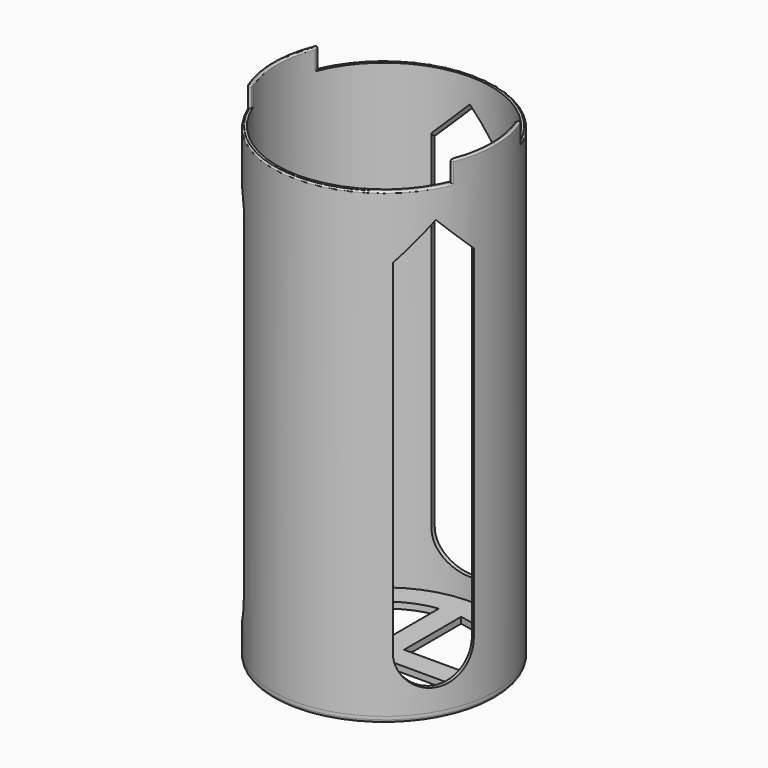
from build123d import *

# Parameters (mm, degrees)
SKETCH_R             = 36
PAD_DEPTH            = 2
SKETCH001_R          = 36
SKETCH001_R_2        = 34.75
PAD001_DEPTH         = 156.5
POCKET_DEPTH         = 100
POLARPATTERN_COUNT   = 3
SKETCH003_W          = 64.8
SKETCH003_H          = 6.65
POCKET001_DEPTH      = 100
POCKET001_DEPTH_BACK = 100
FILLET_R             = 1
FILLET001_R          = 0.5
CHAMFER_SIZE         = 1


with BuildPart() as part:
    # Sketch → Pad (new body)
    with BuildSketch(Plane.XY):
        Circle(SKETCH_R)
        with BuildLine():
            ThreePointArc((-26.758924, -3.6), (-19.091883, -19.091883), (-3.6, -26.758924))
            Line((-3.6, -26.758924), (-3.6, -3.6))
            Line((-3.6, -3.6), (-26.758924, -3.6))
        make_face(mode=Mode.SUBTRACT)
        with BuildLine():
            Line((-3.6, 26.758924), (-3.6, 3.6))
            Line((-3.6, 3.6), (-26.758924, 3.6))
            ThreePointArc((-3.6, 26.758924), (-19.091883, 19.091883), (-26.758924, 3.6))
        make_face(mode=Mode.SUBTRACT)
        with BuildLine():
            Line((3.6, 26.758924), (3.6, 3.6))
            Line((3.6, 3.6), (26.758924, 3.6))
            ThreePointArc((26.758924, 3.6), (19.091883, 19.091883), (3.6, 26.758924))
        make_face(mode=Mode.SUBTRACT)
        with BuildLine():
            Line((3.6, -26.758924), (3.6, -3.6))
            Line((3.6, -3.6), (26.758924, -3.6))
            ThreePointArc((3.6, -26.758924), (19.091883, -19.091883), (26.758924, -3.6))
        make_face(mode=Mode.SUBTRACT)
    extrude(amount=-PAD_DEPTH)

    # Sketch001 (on Face14 of Pad) → Pad001 (join)
    with BuildSketch(Plane.XY):
        Circle(SKETCH001_R)
        Circle(SKETCH001_R_2, mode=Mode.SUBTRACT)
    extrude(amount=PAD001_DEPTH)

    # Sketch002 → Pocket (cut)
    with BuildSketch(Plane.XZ):
        with BuildLine():
            ThreePointArc((-11, 18), (0, 7), (11, 18))
            Line((11, 129.5), (11, 18))
            Line((11, 129.5), (0, 140.5))
            Line((-11, 129.5), (0, 140.5))
            Line((-11, 129.5), (-11, 18))
        make_face()
    pocket = extrude(amount=-POCKET_DEPTH, mode=Mode.SUBTRACT)

    # PolarPattern: Pocket ×3 about axis
    polarpattern_axis = Axis((0, 0, 0), (0, 0, 1))
    for i in range(1, POLARPATTERN_COUNT):
        add(pocket.rotate(polarpattern_axis, i * 360 / POLARPATTERN_COUNT), mode=Mode.SUBTRACT)

    # Sketch003 → Pocket001 (cut, two sides)
    with BuildSketch(Plane.XZ) as pocket001_sk:
        with Locations((0, 153.175)):
            Rectangle(SKETCH003_W, SKETCH003_H)
    extrude(amount=-POCKET001_DEPTH, mode=Mode.SUBTRACT)
    extrude(pocket001_sk.sketch, amount=POCKET001_DEPTH_BACK, mode=Mode.SUBTRACT)

    # Fillet
    fillet_edges = [part.edges().sort_by_distance(p)[0] for p in [
        (-36, 0, -2),
    ]]
    fillet(fillet_edges, radius=FILLET_R)

    # Fillet001
    fillet001_edges = [part.edges().sort_by_distance(p)[0] for p in [
        (0, 36, 149.85),
        (0, -36, 149.85),
        (34.157448, 6.389933, 156.5),
        (32.4, 14.126991, 156.5),
        (35.08846, 8.049845, 156.5),
        (35.08846, -8.049845, 156.5),
        (32.4, -14.126991, 156.5),
        (34.157448, -6.389933, 156.5),
        (-32.4, 14.126991, 156.5),
        (-34.75, 0, 156.5),
        (-32.4, -14.126991, 156.5),
        (-36, 0, 156.5),
        (-32.4, 15.692036, 153.175),
        (-32.4, -15.692036, 153.175),
        (32.4, 15.692036, 153.175),
        (32.4, -15.692036, 153.175),
    ]]
    fillet(fillet001_edges, radius=FILLET001_R)

    # Chamfer
    chamfer_edges = [part.edges().sort_by_distance(p)[0] for p in [
        (-26.941631, -21.947916, 134.963363),
        (-32.478268, -12.358179, 134.963363),
        (-5.536637, 34.306095, 134.963363),
        (5.536637, 34.306095, 134.963363),
        (32.478268, -12.358179, 134.963363),
        (26.941631, -21.947916, 134.963363),
    ]]
    chamfer(chamfer_edges, length=CHAMFER_SIZE)


solid = part.part
